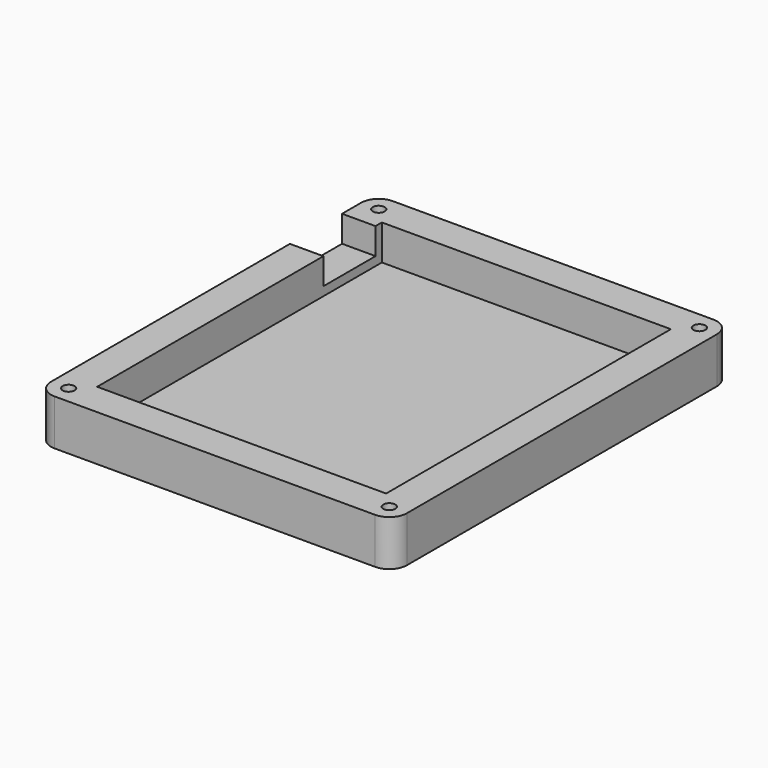
from build123d import *

# Parameters (mm, degrees)
SKETCH_R        = 1.7
PAD_DEPTH       = 13
SKETCH001_W     = 82
SKETCH001_H     = 101
POCKET_DEPTH    = 10
SKETCH002_W     = 18.5
SKETCH002_H     = 7.5
POCKET001_DEPTH = 11
SKETCH003_R     = 3
POCKET002_DEPTH = 3.1


with BuildPart() as part:
    # Sketch → Pad (new body)
    with BuildSketch(Plane.XY):
        with BuildLine():
            Line((-5, 0), (-5, -110))
            ThreePointArc((-5, -110), (-3.535534, -113.535534), (0, -115))
            Line((0, -115), (91, -115))
            ThreePointArc((91, -115), (94.535534, -113.535534), (96, -110))
            Line((96, -110), (96, 0))
            ThreePointArc((96, 0), (94.535534, 3.535534), (91, 5))
            Line((91, 5), (0, 5))
            ThreePointArc((0, 5), (-3.535534, 3.535534), (-5, 0))
        make_face()
        Circle(SKETCH_R, mode=Mode.SUBTRACT)
        with Locations((91, 0)):
            Circle(SKETCH_R, mode=Mode.SUBTRACT)
        with Locations((91, -110)):
            Circle(SKETCH_R, mode=Mode.SUBTRACT)
        with Locations((0, -110)):
            Circle(SKETCH_R, mode=Mode.SUBTRACT)
    extrude(amount=PAD_DEPTH)

    # Sketch001 (on Face14 of Pad) → Pocket (cut)
    with BuildSketch(Plane.XY.offset(13)):
        with Locations((45.5, -55)):
            Rectangle(SKETCH001_W, SKETCH001_H)
    extrude(amount=-POCKET_DEPTH, mode=Mode.SUBTRACT)

    # Sketch002 (on Face1 of Pocket) → Pocket001 (cut)
    with BuildSketch(Plane(origin=(-5, 0, 0), x_dir=(0, -1, 0), z_dir=(-1, 0, 0))):
        with Locations((16, 9.25)):
            Rectangle(SKETCH002_W, SKETCH002_H)
    extrude(amount=-POCKET001_DEPTH, mode=Mode.SUBTRACT)

    # Sketch003 (on Face2 of Pocket001) → Pocket002 (cut)
    with BuildSketch(Plane(origin=(0, 0, 0), x_dir=(1, 0, 0), z_dir=(0, 0, -1))):
        with Locations((0, 110)):
            Circle(SKETCH003_R)
        with Locations((91, 110)):
            Circle(SKETCH003_R)
        with Locations((91, 0)):
            Circle(SKETCH003_R)
        Circle(SKETCH003_R)
    extrude(amount=-POCKET002_DEPTH, mode=Mode.SUBTRACT)


solid = part.part
